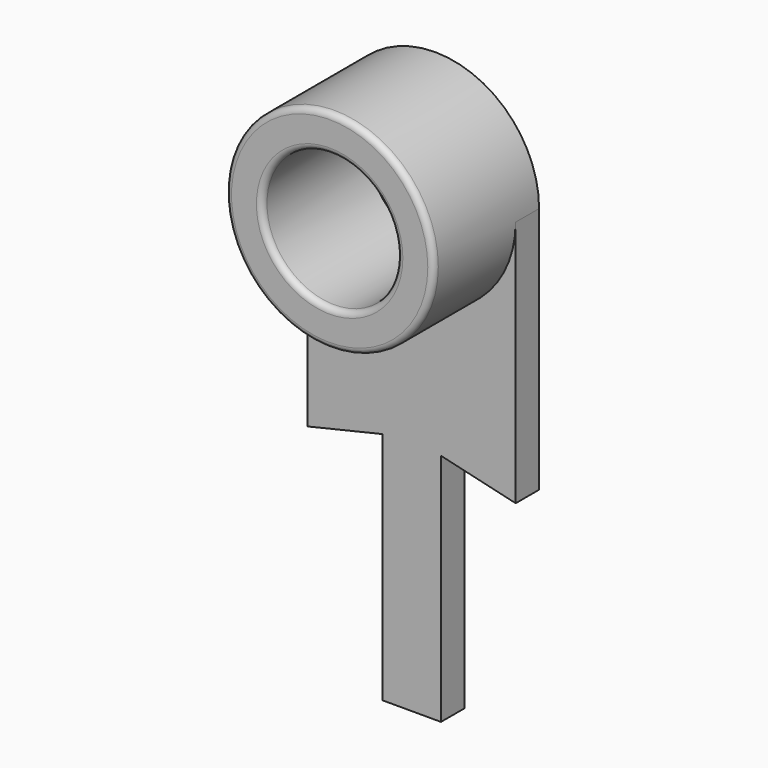
from build123d import *

# Parameters (mm, degrees)
SKETCH108_R   = 1.15
PAD069_DEPTH  = 0.5
SKETCH105_R   = 1.775
SKETCH105_R_2 = 1.15
PAD061_DEPTH  = 1.75
FILLET008_R   = 0.1


with BuildPart() as part:
    # Sketch108 → Pad069 (new body)
    with BuildSketch(Plane.XZ):
        with BuildLine():
            Line((1.775, 0), (1.775, -4.225))
            Line((1.775, -4.225), (0.5, -3.925))
            Line((0.5, -3.925), (0.5, -7.925))
            Line((0.5, -7.925), (-0.5, -7.925))
            Line((-0.5, -7.925), (-0.5, -3.925))
            Line((-0.5, -3.925), (-1.775, -4.225))
            Line((-1.775, -4.225), (-1.775, 0))
            ThreePointArc((1.775, 0), (0, 1.775), (-1.775, 0))
        make_face()
        Circle(SKETCH108_R, mode=Mode.SUBTRACT)
    extrude(amount=PAD069_DEPTH)

    # Sketch105 (on Face11 of Pad069) → Pad061 (join)
    with BuildSketch(Plane.XZ.offset(0.5)):
        Circle(SKETCH105_R)
        Circle(SKETCH105_R_2, mode=Mode.SUBTRACT)
    extrude(amount=PAD061_DEPTH)

    # Fillet008
    fillet008_edges = [part.edges().sort_by_distance(p)[0] for p in [
        (-1.775, -2.25, 0),
        (-1.15, -2.25, 0),
    ]]
    fillet(fillet008_edges, radius=FILLET008_R)


with BuildPart() as part_1:
    # Body032 placement: moved
    add(part.part.moved(Location((0, 0.5, -8))))


solid = part_1.part
